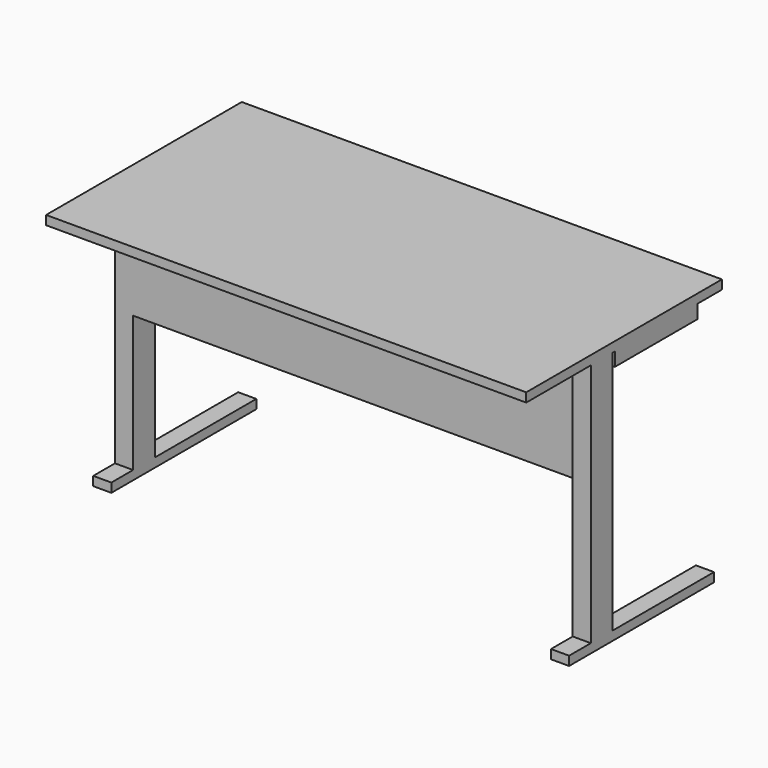
from build123d import *

# Parameters (mm, degrees)
F0_W           = 1346.2
F0_H           = 685.8
F1_DEPTH       = 25.4
F4_DEPTH       = 38.1
F2_W           = 50.8
F2_H           = 76.2
F5_DEPTH       = 685.8
F7_W           = 50.8
F7_H           = 25.4
F8_DEPTH       = 76.2
F8_DEPTH_BACK  = 431.8
F9_W           = 1244.6
F9_H           = 304.8
F10_DEPTH      = 25.4
F6_W           = 50.8
F6_H           = 25.4
F11_DEPTH      = 431.8
F11_DEPTH_BACK = 76.2


with BuildPart() as f1:
    # F0 (on Top) → F1 (new body)
    with BuildSketch(Plane.XY):
        with Locations((-1.6667507589, -3.4339692544)):
            Rectangle(F0_W, F0_H)
    extrude(amount=F1_DEPTH)

    # F3 (on face) → F4 (join)
    with BuildSketch(Plane(origin=(0, 0, 0), x_dir=(1, 0, 0), z_dir=(0, 0, -1))):
        Polygon((-674.7667507589, -254.2923092842), (671.4332492411, -254.2923092842), (671.4332492411, 35.8601883054), (-623.9667507589, 35.8601883054), (-623.9667507589, 28.7036430091), (-674.7667507589, 28.7036430091), align=None)
    extrude(amount=F4_DEPTH)

    # F2 (on face) → F5 (join)
    with BuildSketch(Plane(origin=(0, 0, 0), x_dir=(1, 0, 0), z_dir=(0, 0, -1))):
        with Locations((646.0332492411, 81.8509380281)):
            Rectangle(F2_W, F2_H)
        with Locations((-649.3667507589, 66.8036430091)):
            Rectangle(F2_W, F2_H)
    extrude(amount=F5_DEPTH)

    # F7 (on face) → F8 (join, two sides)
    with BuildSketch(Plane.XZ.offset(104.9036430091)) as f8_sk:
        with Locations((-649.3667507589, -698.5)):
            Rectangle(F7_W, F7_H)
    extrude(amount=F8_DEPTH)
    extrude(f8_sk.sketch, amount=-F8_DEPTH_BACK)

    # F9 (on face) → F10 (join)
    with BuildSketch(Plane.XZ.offset(104.9036430091)):
        with Locations((-1.6667507589, -152.4)):
            Rectangle(F9_W, F9_H)
    extrude(amount=-F10_DEPTH)

    # F6 (on face) → F11 (join, two sides)
    with BuildSketch(Plane.XZ.offset(119.9509380281)) as f11_sk:
        with Locations((646.0332492411, -698.5)):
            Rectangle(F6_W, F6_H)
    extrude(amount=-F11_DEPTH)
    extrude(f11_sk.sketch, amount=F11_DEPTH_BACK)


solid = f1.part
